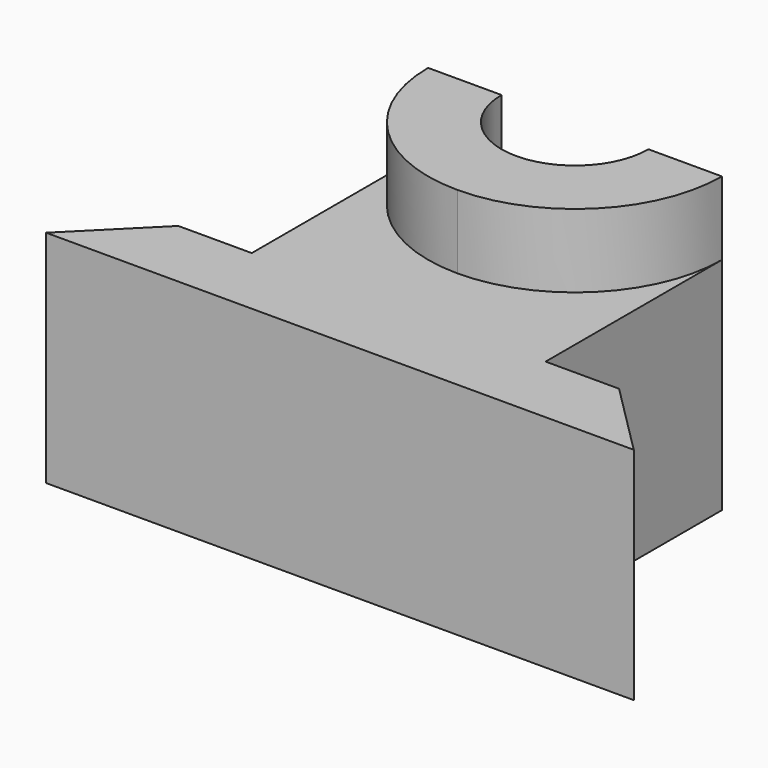
from build123d import *

# Parameters (mm, degrees)
F1_DEPTH = 40
F2_DEPTH = 30


with BuildPart() as f1:
    # F0 (on Top) → F1 (new body)
    with BuildSketch(Plane.XY):
        with BuildLine():
            ThreePointArc((10, 40), (7.071068, 32.928932), (0, 30))
            Line((0, 30), (0, 20))
            ThreePointArc((0, 20), (14.142136, 25.857864), (20, 40))
            Line((20, 40), (10, 40))
        make_face()
        with BuildLine():
            Line((0, 20), (0, 30))
            ThreePointArc((0, 30), (-7.071068, 32.928932), (-10, 40))
            Line((-10, 40), (-20, 40))
            ThreePointArc((-20, 40), (-14.142136, 25.857864), (0, 20))
        make_face()
    extrude(amount=F1_DEPTH)

    # F0 (on Top) → F2 (join)
    with BuildSketch(Plane.XY):
        with BuildLine():
            Line((0, 0), (0, 20))
            ThreePointArc((0, 20), (-14.142136, 25.857864), (-20, 40))
            Line((-20, 40), (-20, 10))
            Line((-20, 10), (-30, 10))
            Line((-30, 10), (-40, 0))
            Line((-40, 0), (0, 0))
        make_face()
        with BuildLine():
            ThreePointArc((20, 40), (14.142136, 25.857864), (0, 20))
            Line((0, 20), (0, 0))
            Line((0, 0), (40, 0))
            Line((40, 0), (30, 10))
            Line((30, 10), (20, 10))
            Line((20, 10), (20, 40))
        make_face()
    extrude(amount=F2_DEPTH)


solid = f1.part
